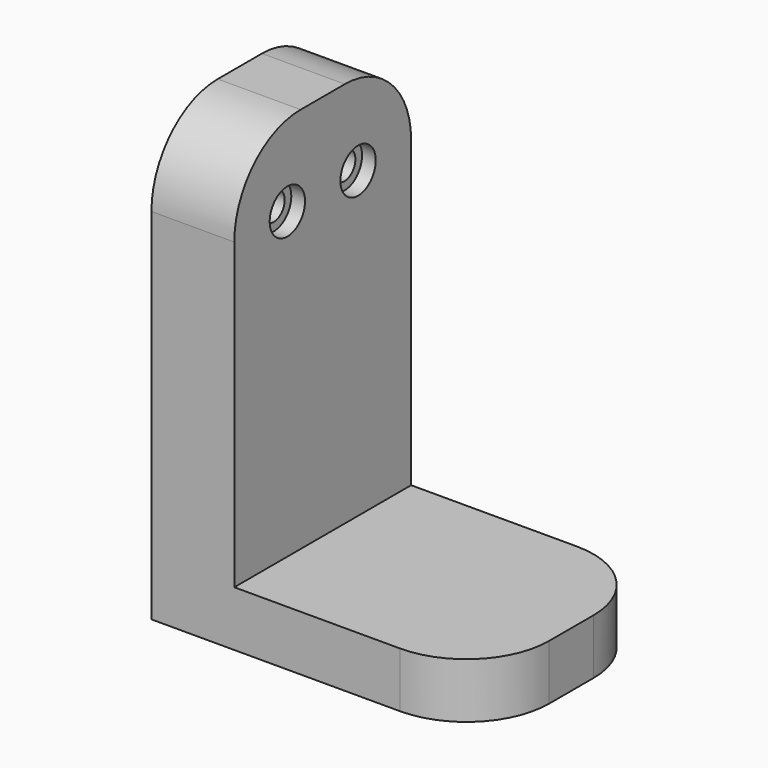
from build123d import *

# Parameters (mm, degrees)
PAD_DEPTH        = 20
FILLET_R         = 15
HOLE_D           = 5
HOLE_CBORE_D     = 8
HOLE_CBORE_DEPTH = 3


with BuildPart() as part:
    # Sketch → Pad (new body, symmetric)
    with BuildSketch(Plane.XZ):
        Polygon((-15.515675, 80), (-15.515675, 0), (44.484325, 0), (44.484325, 10), (-0.515675, 10), (-0.515675, 80), align=None)
    extrude(amount=PAD_DEPTH, both=True)

    # Fillet
    fillet_edges = [part.edges().sort_by_distance(p)[0] for p in [
        (-8.015675, 20, 80),
        (-8.015675, -20, 80),
        (44.484325, 20, 5),
        (44.484325, -20, 5),
    ]]
    fillet(fillet_edges, radius=FILLET_R)

    # Hole (through all)
    with Locations(Plane.YZ):
        with Locations((-8, 65)):
            hole = CounterBoreHole(HOLE_D / 2, HOLE_CBORE_D / 2, HOLE_CBORE_DEPTH)

    # Mirrored: Hole across XZ
    add(hole.mirror(Plane.XZ), mode=Mode.SUBTRACT)


solid = part.part
